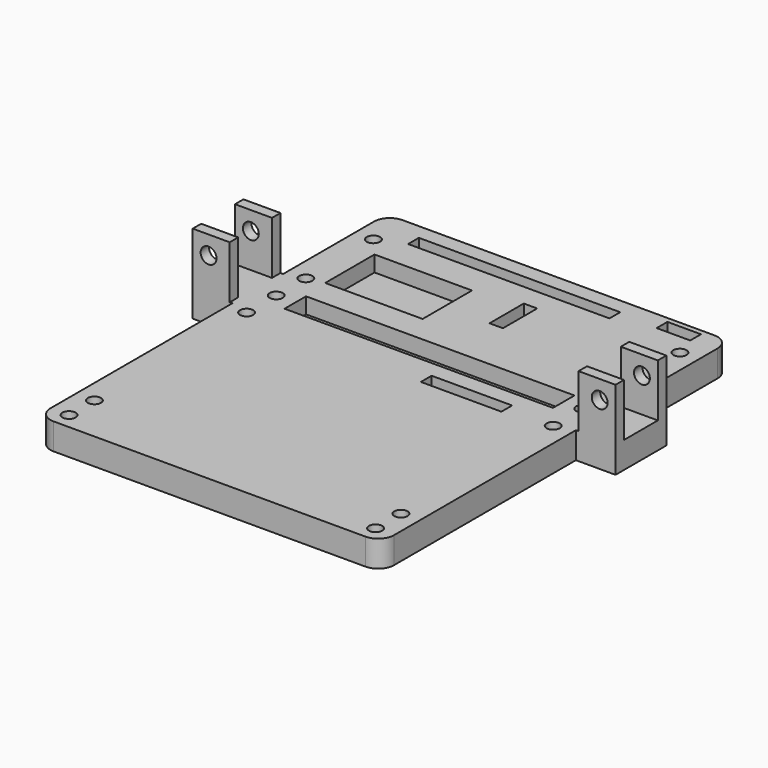
from build123d import *

# Parameters (mm, degrees)
PAD002_DEPTH    = 5
SKETCH006_W     = 7
SKETCH006_H     = 2
PAD003_DEPTH    = 10
SKETCH007_R     = 1.5
POCKET003_DEPTH = 58.011
SKETCH008_W     = 50.8
SKETCH008_H     = 5.08
SKETCH008_W_2   = 15.24
SKETCH008_H_2   = 2.54
SKETCH008_W_3   = 6.35
SKETCH008_W_4   = 18.439
SKETCH008_H_3   = 11.67
SKETCH008_W_5   = 38.1
SKETCH008_W_6   = 2.54
SKETCH008_H_4   = 8.102
POCKET004_DEPTH = 3
SKETCH011_R     = 1.25
POCKET006_DEPTH = 5
SKETCH012_R     = 1.25
POCKET007_DEPTH = 5.001
POCKET008_DEPTH = 3


with BuildPart() as part:
    # Sketch005 → Pad002 (new body)
    with BuildSketch(Plane.XY):
        with BuildLine():
            Line((-29.5, 30.49), (29.5, 30.49))
            ThreePointArc((32.5, 27.49), (31.62132, 29.61132), (29.5, 30.49))
            Line((32.5, 27.49), (32.5, 6))
            Line((32.5, 6), (40, 6))
            Line((40, 6), (40, -6))
            Line((40, -6), (32.5, -6))
            Line((32.5, -6), (32.5, -49.01))
            ThreePointArc((29.5, -52.01), (31.62132, -51.13132), (32.5, -49.01))
            Line((29.5, -52.01), (-29.5, -52.01))
            ThreePointArc((-32.5, -49.01), (-31.62132, -51.13132), (-29.5, -52.01))
            Line((-32.5, -49.01), (-32.5, -6))
            Line((-40, -6), (-32.5, -6))
            Line((-40, 6), (-40, -6))
            Line((-32.5, 6), (-40, 6))
            Line((-32.5, 6), (-32.5, 27.49))
            ThreePointArc((-29.5, 30.49), (-31.62132, 29.61132), (-32.5, 27.49))
        make_face()
    extrude(amount=PAD002_DEPTH)

    # Sketch006 (on Face18 of Pad002) → Pad003 (join)
    with BuildSketch(Plane.XY.offset(5)):
        with Locations((-36.5, 5)):
            Rectangle(SKETCH006_W, SKETCH006_H)
        with Locations((-36.5, -5)):
            Rectangle(SKETCH006_W, SKETCH006_H)
        with Locations((36.5, 5)):
            Rectangle(SKETCH006_W, SKETCH006_H)
        with Locations((36.5, -5)):
            Rectangle(SKETCH006_W, SKETCH006_H)
    extrude(amount=PAD003_DEPTH)

    # Sketch007 (on Face31 of Pad003) → Pocket003 (cut, through all)
    with BuildSketch(Plane(origin=(0, 6, 0), x_dir=(-1, 0, 0), z_dir=(0, 1, 0))):
        with Locations((-37, 11.5)):
            Circle(SKETCH007_R)
        with Locations((37, 11.5)):
            Circle(SKETCH007_R)
    extrude(amount=-POCKET003_DEPTH, mode=Mode.SUBTRACT)

    # Sketch008 (on Face5 of Pocket003) → Pocket004 (cut)
    with BuildSketch(Plane.XY.offset(5)):
        Rectangle(SKETCH008_W, SKETCH008_H)
        with Locations((12.585155, -6.980772)):
            Rectangle(SKETCH008_W_2, SKETCH008_H_2)
        with Locations((24.579938, 28.237418)):
            Rectangle(SKETCH008_W_3, SKETCH008_H_2)
        with Locations((-16.635361, 13.478935)):
            Rectangle(SKETCH008_W_4, SKETCH008_H_3)
        with Locations((-5.021458, 26.296776)):
            Rectangle(SKETCH008_W_5, SKETCH008_H_2)
        with Locations((2.434377, 16.791615)):
            Rectangle(SKETCH008_W_6, SKETCH008_H_4)
    extrude(amount=-POCKET004_DEPTH, mode=Mode.SUBTRACT)

    # Sketch011 (on Face5 of Pocket004) → Pocket006 (cut)
    with BuildSketch(Plane.XY.offset(5)):
        with Locations((-29, 0)):
            Circle(SKETCH011_R)
        with Locations((29, 0)):
            Circle(SKETCH011_R)
        with Locations((-29, -49)):
            Circle(SKETCH011_R)
        with Locations((29, -49)):
            Circle(SKETCH011_R)
    extrude(amount=-POCKET006_DEPTH, mode=Mode.SUBTRACT)

    # Sketch012 (on Face5 of Pocket006) → Pocket007 (cut, through all)
    with BuildSketch(Plane.XY.offset(5)):
        with Locations((-29, 7)):
            Circle(SKETCH012_R)
        with Locations((29, 7)):
            Circle(SKETCH012_R)
        with Locations((29, -43)):
            Circle(SKETCH012_R)
        with Locations((-29, -43)):
            Circle(SKETCH012_R)
        with Locations((-29, 22.99)):
            Circle(SKETCH012_R)
        with Locations((29, 22.99)):
            Circle(SKETCH012_R)
        with Locations((-29, -7)):
            Circle(SKETCH012_R)
        with Locations((29, -7)):
            Circle(SKETCH012_R)
    extrude(amount=-POCKET007_DEPTH, mode=Mode.SUBTRACT)

    # Sketch013 (on Face5 of Pocket006) → Pocket008 (cut)
    with BuildSketch(Plane.XY):
        Polygon((-26.113249, 21.323333), (-26.113249, 24.656667), (-29, 26.323333), (-31.886751, 24.656667), (-31.886751, 21.323333), (-29, 19.656667), align=None)
        Polygon((31.886751, 21.323333), (31.886751, 24.656667), (29, 26.323333), (26.113249, 24.656667), (26.113249, 21.323333), (29, 19.656667), align=None)
        Polygon((-26.113249, 5.333333), (-26.113249, 8.666667), (-29, 10.333333), (-31.886751, 8.666667), (-31.886751, 5.333333), (-29, 3.666667), align=None)
        Polygon((31.886751, 5.333333), (31.886751, 8.666667), (29, 10.333333), (26.113249, 8.666667), (26.113249, 5.333333), (29, 3.666667), align=None)
        Polygon((-26.113249, -8.666667), (-26.113249, -5.333333), (-29, -3.666667), (-31.886751, -5.333333), (-31.886751, -8.666667), (-29, -10.333333), align=None)
        Polygon((31.886751, -8.666667), (31.886751, -5.333333), (29, -3.666667), (26.113249, -5.333333), (26.113249, -8.666667), (29, -10.333333), align=None)
        Polygon((-26.113249, -44.666667), (-26.113249, -41.333333), (-29, -39.666667), (-31.886751, -41.333333), (-31.886751, -44.666667), (-29, -46.333333), align=None)
        Polygon((31.886751, -44.666667), (31.886751, -41.333333), (29, -39.666667), (26.113249, -41.333333), (26.113249, -44.666667), (29, -46.333333), align=None)
    extrude(amount=POCKET008_DEPTH, mode=Mode.SUBTRACT)


solid = part.part
